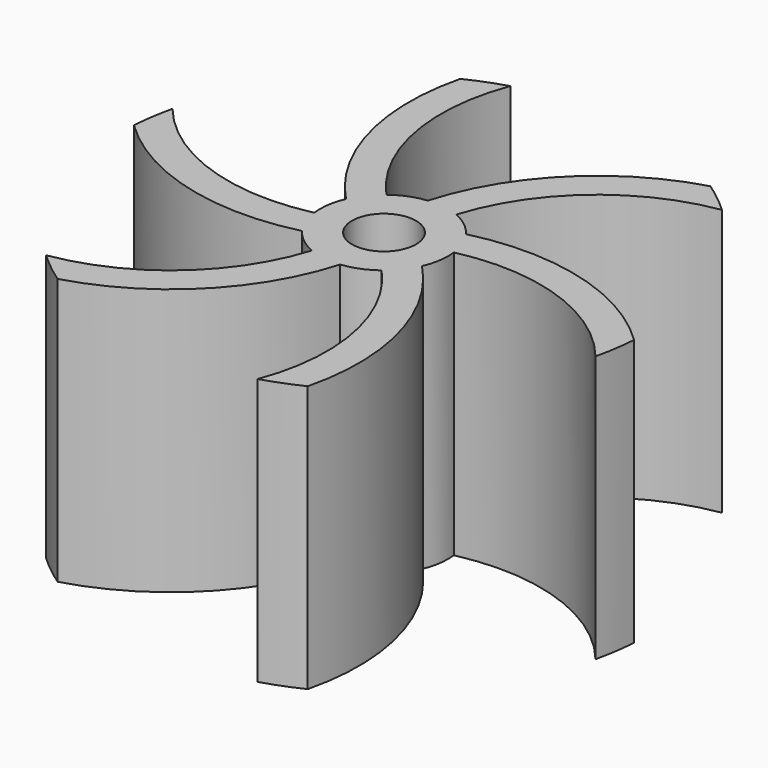
from build123d import *

# Parameters (mm, degrees)
F0_R     = 3
F1_DEPTH = 25


with BuildPart() as f1:
    # F0 (on Top) → F1 (new body)
    with BuildSketch(Plane.XY):
        with BuildLine():
            ThreePointArc((2.34375, 5.523299), (7.893914, 13.98902), (17.06875, 18.266302))
            ThreePointArc((17.06875, 18.266302), (15.614904, 19.523698), (14.06875, 20.665679))
            ThreePointArc((14.06875, 20.665679), (4.809259, 15.214841), (-0.65625, 5.964003))
            ThreePointArc((-0.65625, 5.964003), (-2.212928, 5.577002), (-3.611443, 4.791397))
            ThreePointArc((-3.611443, 4.791397), (-8.16789, 13.83084), (-7.284706, 23.915122))
            ThreePointArc((-7.284706, 23.915122), (-9.100566, 23.284752), (-10.862628, 22.516734))
            ThreePointArc((-10.862628, 22.516734), (-10.771809, 11.772361), (-5.493103, 2.413673))
            ThreePointArc((-5.493103, 2.413673), (-5.936289, 0.872049), (-5.955193, -0.731903))
            ThreePointArc((-5.955193, -0.731903), (-16.061804, -0.15818), (-24.353456, 5.64882))
            ThreePointArc((-24.353456, 5.64882), (-24.71547, 3.761055), (-24.931378, 1.851056))
            ThreePointArc((-24.931378, 1.851056), (-15.581069, -3.44248), (-4.836853, -3.550331))
            ThreePointArc((-4.836853, -3.550331), (-3.723361, -4.704953), (-2.34375, -5.523299))
            ThreePointArc((-2.34375, -5.523299), (-7.893914, -13.98902), (-17.06875, -18.266302))
            ThreePointArc((-17.06875, -18.266302), (-15.614904, -19.523698), (-14.06875, -20.665679))
            ThreePointArc((-14.06875, -20.665679), (-4.809259, -15.214841), (0.65625, -5.964003))
            ThreePointArc((0.65625, -5.964003), (2.212928, -5.577002), (3.611443, -4.791397))
            ThreePointArc((3.611443, -4.791397), (8.16789, -13.83084), (7.284706, -23.915122))
            ThreePointArc((7.284706, -23.915122), (9.100566, -23.284752), (10.862628, -22.516734))
            ThreePointArc((10.862628, -22.516734), (10.771809, -11.772361), (5.493103, -2.413673))
            ThreePointArc((5.493103, -2.413673), (5.936289, -0.872049), (5.955193, 0.731903))
            ThreePointArc((5.955193, 0.731903), (16.061804, 0.15818), (24.353456, -5.64882))
            ThreePointArc((24.353456, -5.64882), (24.71547, -3.761055), (24.931378, -1.851056))
            ThreePointArc((24.931378, -1.851056), (15.581069, 3.44248), (4.836853, 3.550331))
            ThreePointArc((4.836853, 3.550331), (3.723361, 4.704953), (2.34375, 5.523299))
        make_face()
        Circle(F0_R, mode=Mode.SUBTRACT)
    extrude(amount=F1_DEPTH)


solid = f1.part
